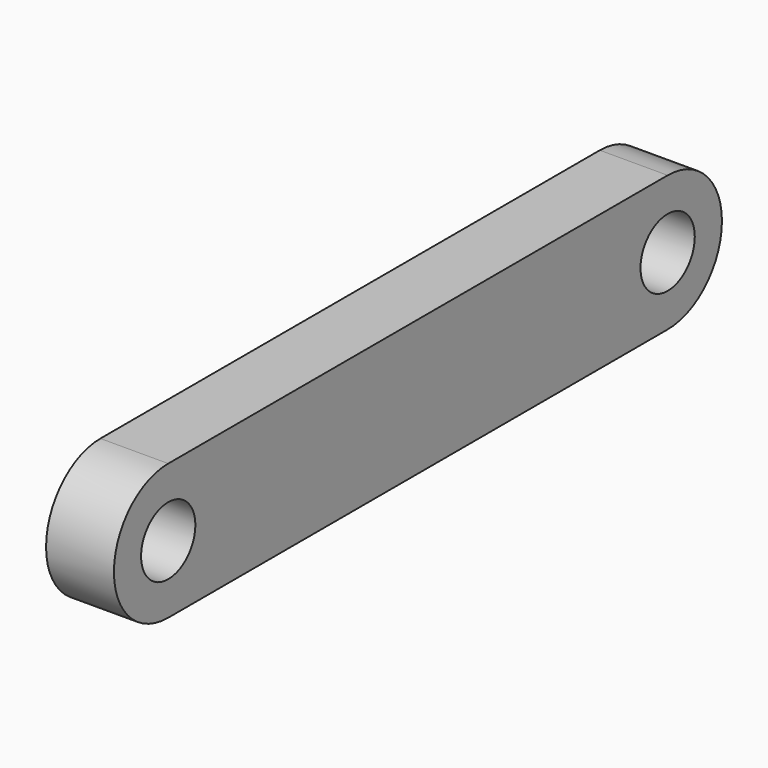
from build123d import *

# Parameters (mm, degrees)
F0_R     = 3.175
F1_DEPTH = 3.175


with BuildPart() as f1:
    # F0 (on Right) → F1 (new body, symmetric)
    with BuildSketch(Plane.YZ):
        with BuildLine():
            Line((29.210001, 6.87629), (-29.209999, 6.87629))
            ThreePointArc((-29.209999, 6.87629), (-35.559999, 0.52629), (-29.209999, -5.82371))
            Line((-29.209999, -5.82371), (29.210001, -5.82371))
            ThreePointArc((29.210001, -5.82371), (35.560001, 0.52629), (29.210001, 6.87629))
        make_face()
        with Locations((-29.209999, 0.52629)):
            Circle(F0_R, mode=Mode.SUBTRACT)
        with Locations((29.210001, 0.52629)):
            Circle(F0_R, mode=Mode.SUBTRACT)
    extrude(amount=F1_DEPTH, both=True)


solid = f1.part
